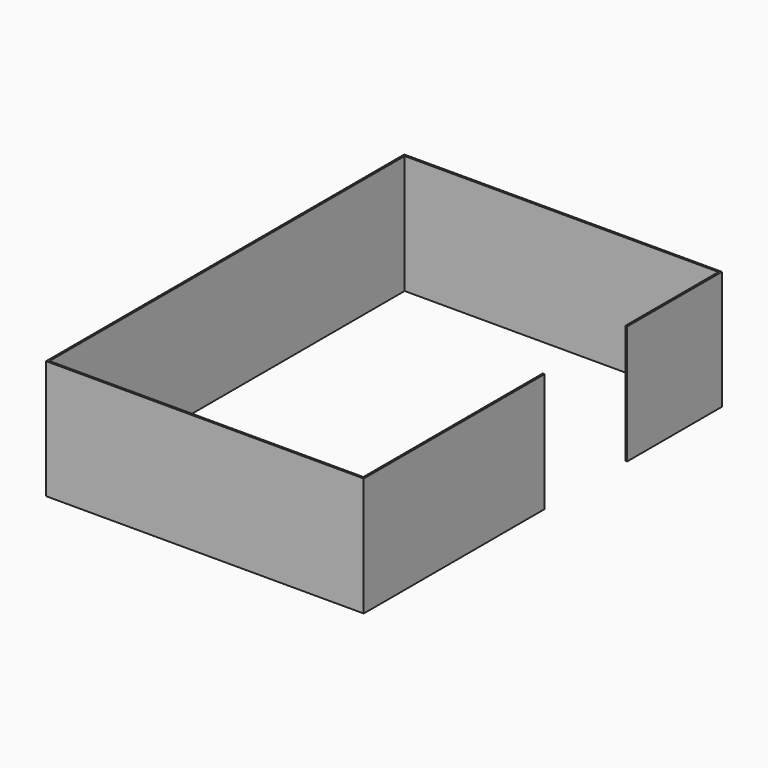
from build123d import *

# Parameters (mm, degrees)
F1_DEPTH      = 1150
F1_DEPTH_BACK = 175


with BuildPart() as f1:
    # F0 (on Top) → F1 (new body, two sides)
    with BuildSketch(Plane.XY) as f1_sk:
        Polygon((-1750, -2475), (-1750, 2475), (1750, 2475), (1750, 1175), (1771, 1175), (1771, 2496), (-1771, 2496), (-1771, -2496), (1771, -2496), (1771, 25), (1750, 25), (1750, -2475), align=None)
    extrude(amount=F1_DEPTH)
    extrude(f1_sk.sketch, amount=-F1_DEPTH_BACK)


solid = f1.part
